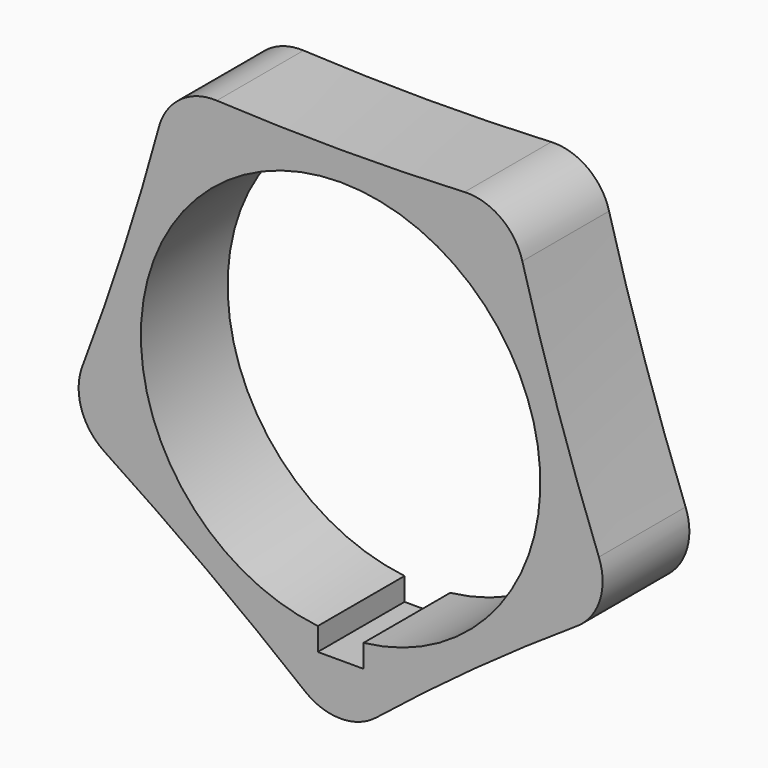
from build123d import *

# Parameters (mm, degrees)
F0_R     = 17.5
F1_DEPTH = 9.5
F2_R     = 5
F4_DEPTH = 9.5010001


with BuildPart() as f1:
    # F0 (on Front) → F1 (new body)
    with BuildSketch(Plane.XZ):
        with BuildLine():
            ThreePointArc((24.099195344, -7.8303032306), (19.0211303259, 6.1803398875), (14.8941218241, 20.5))
            ThreePointArc((14.8941218241, 20.5), (0, 20), (-14.8941218241, 20.5))
            ThreePointArc((-14.8941218241, 20.5), (-19.0211303259, 6.1803398875), (-24.099195344, -7.8303032306))
            ThreePointArc((-24.099195344, -7.8303032306), (-11.7557050458, -16.1803398875), (0, -25.3393935387))
            ThreePointArc((0, -25.3393935387), (11.7557050458, -16.1803398875), (24.099195344, -7.8303032306))
        make_face()
        Circle(F0_R, mode=Mode.SUBTRACT)
    extrude(amount=F1_DEPTH)

    # F2
    f2_edges = [f1.edges().sort_by_distance(p)[0] for p in [
        (0, -4.75, -25.339394),
        (-24.099195, -4.75, -7.830303),
        (-14.894122, -4.75, 20.5),
        (14.894122, -4.75, 20.5),
        (24.099195, -4.75, -7.830303),
    ]]
    fillet(f2_edges, radius=F2_R)

    # F3 (on face) → F4 (cut, through all)
    with BuildSketch(Plane.XZ.offset(9.5)):
        Polygon((2, -19.3853386507), (2, -17.3853386507), (-2, -17.3853386507), (-2, -19.3853386507), (0, -19.3853386507), align=None)
    extrude(amount=-F4_DEPTH, mode=Mode.SUBTRACT)


solid = f1.part
